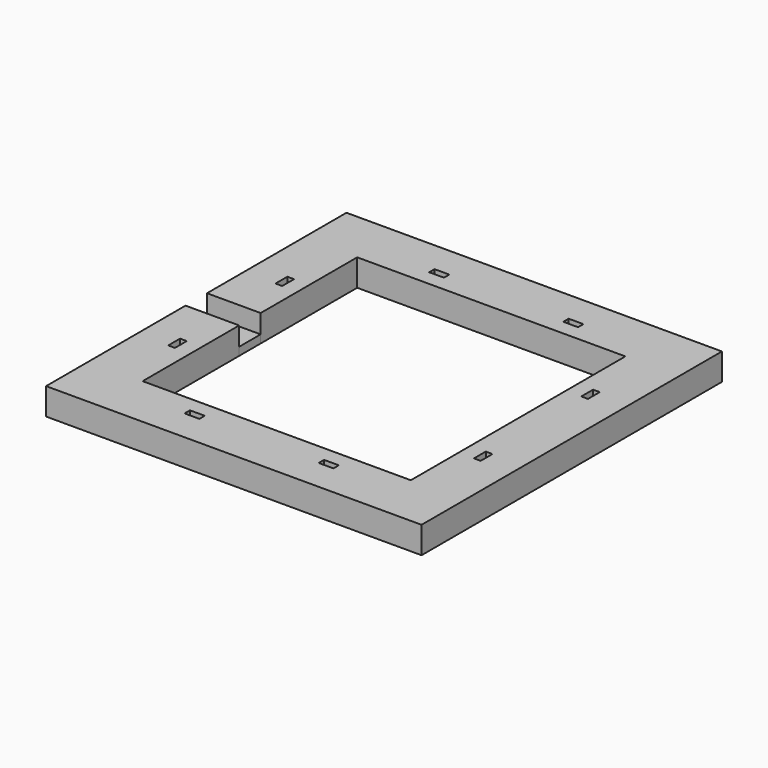
from build123d import *

# Parameters (mm, degrees)
F0_W     = 5.5
F0_H     = 2.5
F0_W_2   = 2.5
F0_H_2   = 5.5
F0_W_3   = 15
F0_H_3   = 10
F0_W_4   = 5
F1_DEPTH = 3
F2_DEPTH = 10


with BuildPart() as f1:
    # F0 (on Top) → F1 (new body)
    with BuildSketch(Plane.XY):
        Polygon((-61.175863, 19.733036), (-61.175863, 64.733036), (38.824137, 64.733036), (38.824137, -35.266964), (-61.175863, -35.266964), (-61.175863, 9.733036), (-76.175863, 9.733036), (-76.175863, -50.266964), (53.824137, -50.266964), (53.824137, 79.733036), (-76.175863, 79.733036), (-76.175863, 19.733036), align=None)
        with Locations((-36.175863, -42.266964)):
            Rectangle(F0_W, F0_H, mode=Mode.SUBTRACT)
        with Locations((-68.175863, -10.266964)):
            Rectangle(F0_W_2, F0_H_2, mode=Mode.SUBTRACT)
        with Locations((13.824137, -42.266964)):
            Rectangle(F0_W, F0_H, mode=Mode.SUBTRACT)
        with Locations((45.824137, -10.266964)):
            Rectangle(F0_W_2, F0_H_2, mode=Mode.SUBTRACT)
        with Locations((-68.175863, 39.733036)):
            Rectangle(F0_W_2, F0_H_2, mode=Mode.SUBTRACT)
        with Locations((-36.175863, 71.733036)):
            Rectangle(F0_W, F0_H, mode=Mode.SUBTRACT)
        with Locations((45.824137, 39.733036)):
            Rectangle(F0_W_2, F0_H_2, mode=Mode.SUBTRACT)
        with Locations((13.824137, 71.733036)):
            Rectangle(F0_W, F0_H, mode=Mode.SUBTRACT)
        Polygon((-81.175863, 19.733036), (-76.175863, 19.733036), (-76.175863, 79.733036), (53.824137, 79.733036), (53.824137, -50.266964), (-76.175863, -50.266964), (-76.175863, 9.733036), (-81.175863, 9.733036), (-81.175863, -55.266964), (58.824137, -55.266964), (58.824137, 84.733036), (-81.175863, 84.733036), align=None)
        with Locations((-68.675863, 14.733036)):
            Rectangle(F0_W_3, F0_H_3)
        with Locations((-78.675863, 14.733036)):
            Rectangle(F0_W_4, F0_H_3)
    extrude(amount=F1_DEPTH)


with BuildPart() as f2:
    # F0 (on Top) → F2 (new body)
    with BuildSketch(Plane.XY):
        Polygon((-61.175863, 19.733036), (-61.175863, 64.733036), (38.824137, 64.733036), (38.824137, -35.266964), (-61.175863, -35.266964), (-61.175863, 9.733036), (-76.175863, 9.733036), (-76.175863, -50.266964), (53.824137, -50.266964), (53.824137, 79.733036), (-76.175863, 79.733036), (-76.175863, 19.733036), align=None)
        with Locations((-36.175863, -42.266964)):
            Rectangle(F0_W, F0_H, mode=Mode.SUBTRACT)
        with Locations((-68.175863, -10.266964)):
            Rectangle(F0_W_2, F0_H_2, mode=Mode.SUBTRACT)
        with Locations((13.824137, -42.266964)):
            Rectangle(F0_W, F0_H, mode=Mode.SUBTRACT)
        with Locations((45.824137, -10.266964)):
            Rectangle(F0_W_2, F0_H_2, mode=Mode.SUBTRACT)
        with Locations((-68.175863, 39.733036)):
            Rectangle(F0_W_2, F0_H_2, mode=Mode.SUBTRACT)
        with Locations((-36.175863, 71.733036)):
            Rectangle(F0_W, F0_H, mode=Mode.SUBTRACT)
        with Locations((45.824137, 39.733036)):
            Rectangle(F0_W_2, F0_H_2, mode=Mode.SUBTRACT)
        with Locations((13.824137, 71.733036)):
            Rectangle(F0_W, F0_H, mode=Mode.SUBTRACT)
        Polygon((-81.175863, 19.733036), (-76.175863, 19.733036), (-76.175863, 79.733036), (53.824137, 79.733036), (53.824137, -50.266964), (-76.175863, -50.266964), (-76.175863, 9.733036), (-81.175863, 9.733036), (-81.175863, -55.266964), (58.824137, -55.266964), (58.824137, 84.733036), (-81.175863, 84.733036), align=None)
    extrude(amount=F2_DEPTH)


solid = Compound([f1.part, f2.part])
